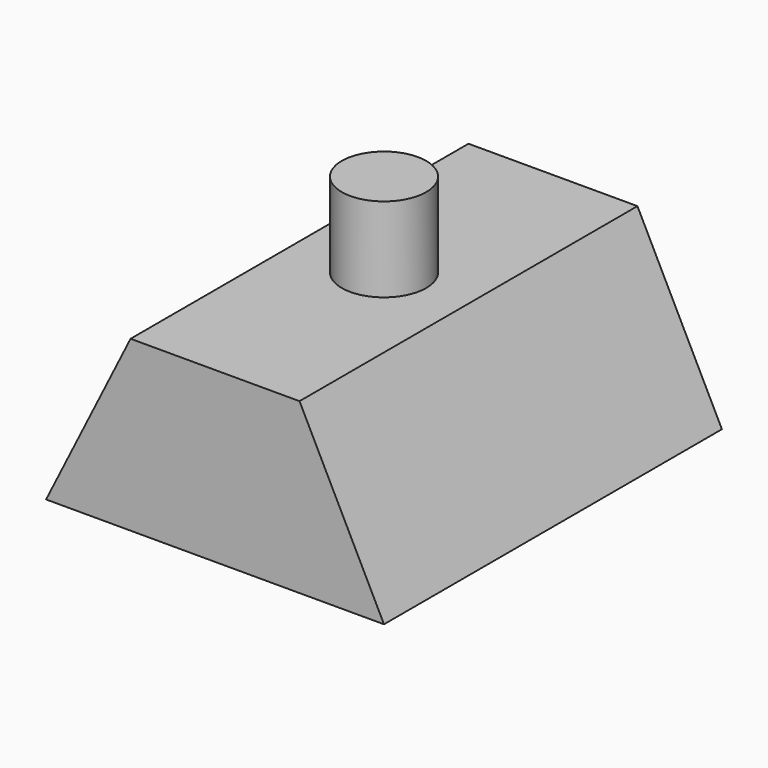
from build123d import *

# Parameters (mm, degrees)
F1_DEPTH = 25
F2_R     = 2.5
F3_DEPTH = 5


with BuildPart() as f1:
    # F0 (on Front) → F1 (new body)
    with BuildSketch(Plane.XZ):
        Polygon((-10, 0), (0, 0), (10, 0), (5, 10), (0, 10), (-5, 10), align=None)
    extrude(amount=F1_DEPTH)

    # F2 (on face) → F3 (join)
    with BuildSketch(Plane.XY.offset(10)):
        with Locations((0, -12.5)):
            Circle(F2_R)
    extrude(amount=F3_DEPTH)


solid = f1.part
